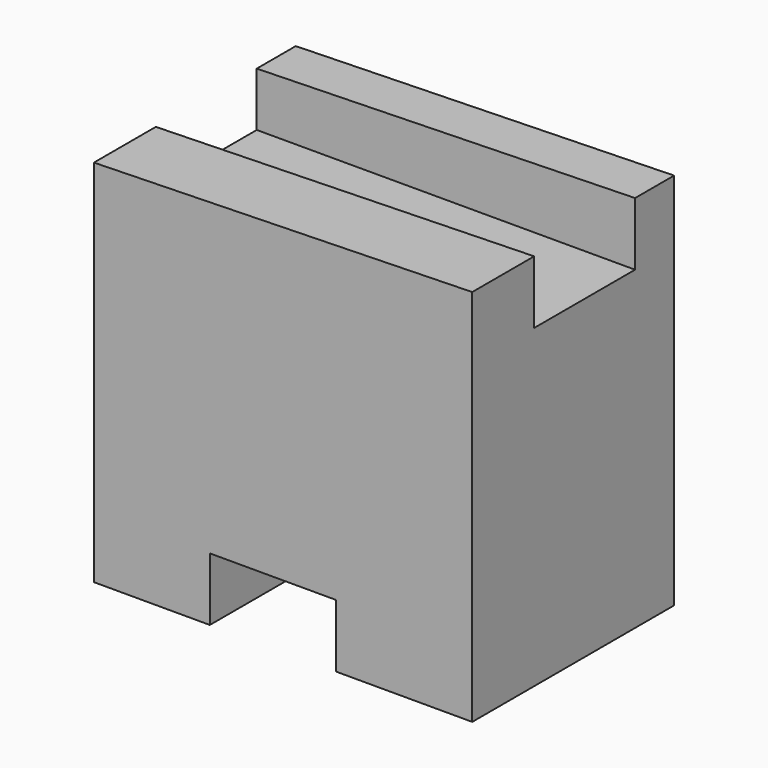
from build123d import *

# Parameters (mm, degrees)
F1_DEPTH = 25.4
F2_W     = 12.7
F2_H     = 6.35
F3_DEPTH = 25.401
F4_W     = 12.7
F4_H     = 6.35
F5_DEPTH = 38.090076


with BuildPart() as f1:
    # F0 (on Front) → F1 (new body)
    with BuildSketch(Plane.XZ):
        Polygon((38.089076, 39.012315), (0, 38.1), (0, 0.912315), (38.089076, 0.912315), align=None)
    extrude(amount=F1_DEPTH)

    # F2 (on face) → F3 (cut, through all)
    with BuildSketch(Plane.XZ.offset(25.4)):
        with Locations((18.020797, 4.087315)):
            Rectangle(F2_W, F2_H)
    extrude(amount=-F3_DEPTH, mode=Mode.SUBTRACT)

    # F4 (on face) → F5 (cut, through all)
    with BuildSketch(Plane.YZ.offset(38.089076)):
        with Locations((-11.259039, 35.837315)):
            Rectangle(F4_W, F4_H)
    extrude(amount=-F5_DEPTH, mode=Mode.SUBTRACT)


solid = f1.part
